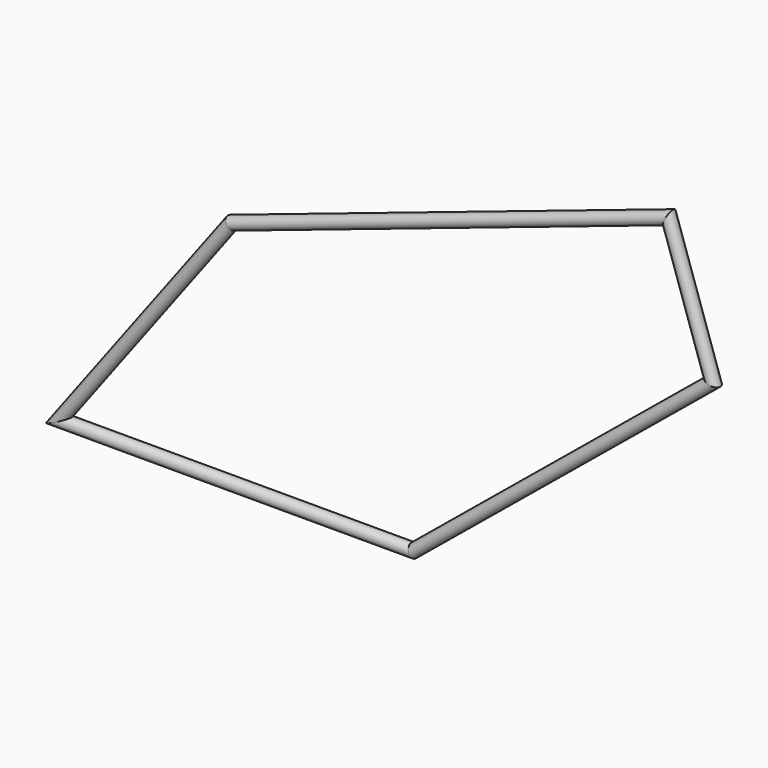
from build123d import *

# Parameters (mm, degrees)
F1_R = 9


with BuildPart() as f2:
    # F2: sweep along a path in F0
    with BuildLine(Plane.XZ) as f2_path:
        Line((508.8292739393, 0), (0, 0))
        Line((0, 0), (247.4634323807, 329.4720128394))
        Line((247.4634323807, 329.4720128394), (875.8535972302, 540.7891085966))
        Line((875.8535972302, 540.7891085966), (938.908262648, 353.2844892736))
        Line((938.908262648, 353.2844892736), (508.8292739393, 0))
    # F1 (on Right) → F2 (sweep)
    with BuildSketch(Plane.YZ):
        Circle(F1_R)
    sweep(path=f2_path.line, transition=Transition.RIGHT)


solid = f2.part
